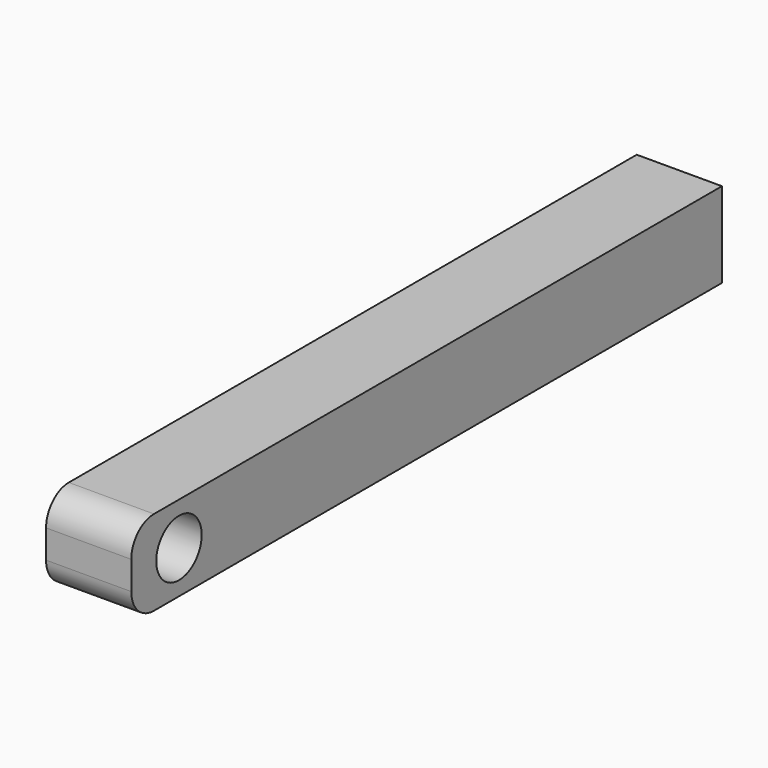
from build123d import *

# Parameters (mm, degrees)
F0_W     = 38.1
F0_H     = 38.1
F1_DEPTH = 330.2
F2_R     = 12.7
F3_DEPTH = 38.101
F4_R     = 12.7


with BuildPart() as f1:
    # F0 (on Front) → F1 (new body)
    with BuildSketch(Plane.XZ):
        with Locations((-3.677602, 3.30648)):
            Rectangle(F0_W, F0_H)
    extrude(amount=F1_DEPTH)

    # F2 (on face) → F3 (cut, through all)
    with BuildSketch(Plane.YZ.offset(15.372398)):
        with Locations((-303.540766, 3.30648)):
            Circle(F2_R)
    extrude(amount=-F3_DEPTH, mode=Mode.SUBTRACT)

    # F4
    f4_edges = [f1.edges().sort_by_distance(p)[0] for p in [
        (-3.677602, -330.2, 22.35648),
        (-3.677602, -330.2, -15.74352),
    ]]
    fillet(f4_edges, radius=F4_R)


solid = f1.part
